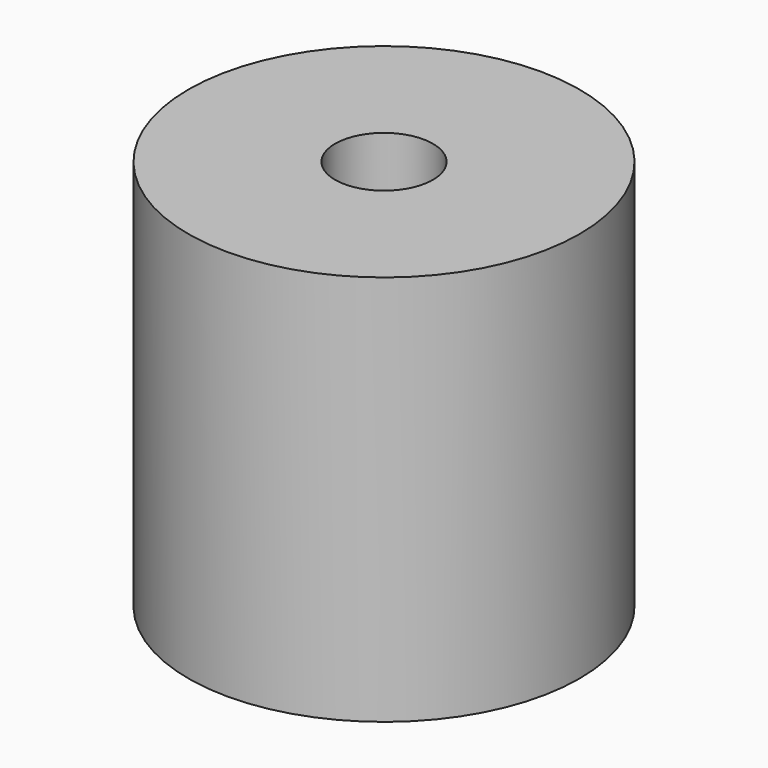
from build123d import *

# Parameters (mm, degrees)
SKETCH136_R   = 8
SKETCH136_R_2 = 2
PAD039_DEPTH  = 16


with BuildPart() as body094:
    # Sketch136 → Pad039 (new body)
    with BuildSketch(Plane.XY):
        Circle(SKETCH136_R)
        Circle(SKETCH136_R_2, mode=Mode.SUBTRACT)
    extrude(amount=PAD039_DEPTH)


with BuildPart() as body094_1:
    # Body094 placement: moved
    add(body094.part.moved(Location((65, 65, -2))))


with BuildPart() as part_mirroring066:
    # Part__Mirroring066: instance of Body094
    add(body094_1.part.mirror(Plane(origin=(0, 0, 0), x_dir=(0, -1, 0), z_dir=(1, 0, 0))))


with BuildPart() as part_mirroring068:
    # Part__Mirroring068: instance of Part__Mirroring066
    add(part_mirroring066.part.mirror(Plane(origin=(0, 0, 0), x_dir=(1, 0, 0), z_dir=(0, 1, 0))))


solid = part_mirroring068.part
